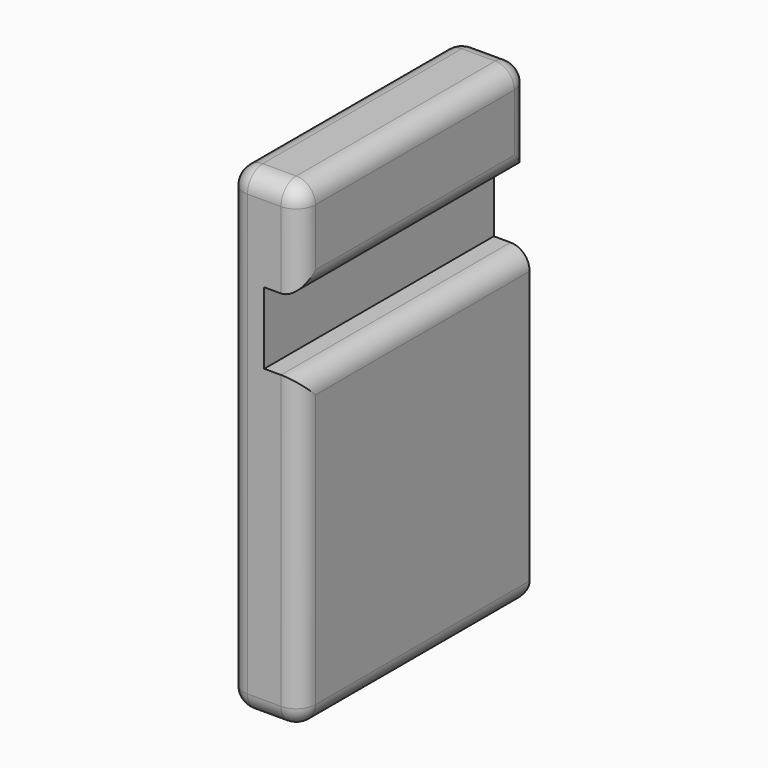
from build123d import *

# Parameters (mm, degrees)
F1_DEPTH = 76.2
F2_R     = 5.08


with BuildPart() as f1:
    # F0 (on Front) → F1 (new body)
    with BuildSketch(Plane.XZ):
        Polygon((-65.182051, -71.675424), (-46.132051, -71.675424), (-46.132051, 10.874576), (-55.657051, 10.874576), (-55.657051, 29.924576), (-46.132051, 29.924576), (-46.132051, 55.324576), (-65.182051, 55.324576), align=None)
    extrude(amount=F1_DEPTH)

    # F2
    f2_edges = [f1.edges().sort_by_distance(p)[0] for p in [
        (-55.657051, -76.2, 55.324576),
        (-55.657051, 0, 55.324576),
        (-55.657051, -76.2, -71.675424),
        (-46.132051, -38.1, -71.675424),
        (-55.657051, 0, -71.675424),
        (-65.182051, -38.1, -71.675424),
        (-46.132051, -76.2, -30.400424),
        (-65.182051, -76.2, -8.175424),
        (-46.132051, -76.2, 42.624576),
        (-46.132051, -38.1, 29.924576),
        (-46.132051, -38.1, 10.874576),
        (-46.132051, -38.1, 55.324576),
        (-46.132051, 0, 42.624576),
        (-65.182051, 0, -8.175424),
        (-65.182051, -38.1, 55.324576),
    ]]
    fillet(f2_edges, radius=F2_R)


solid = f1.part
